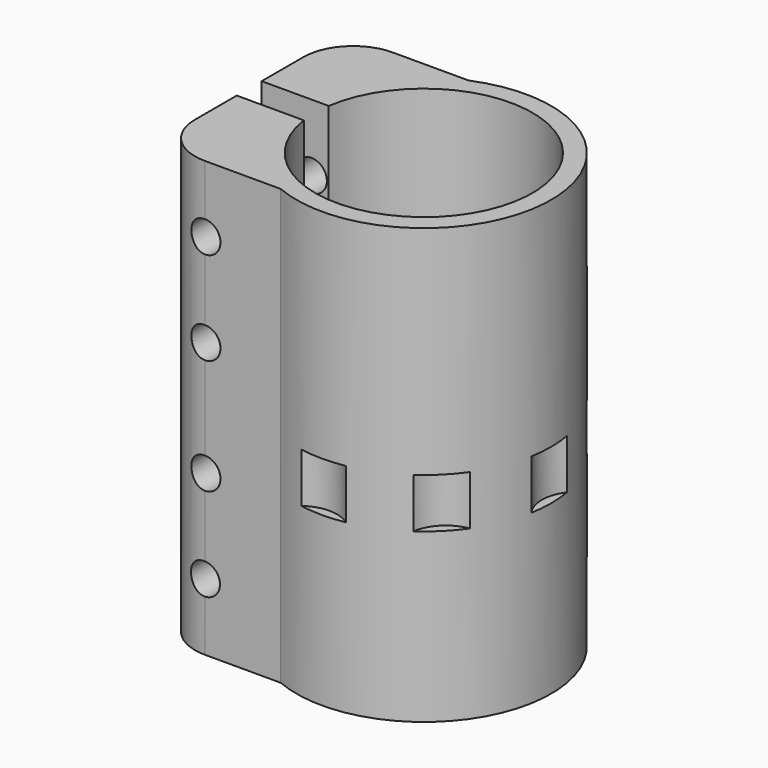
from build123d import *

# Parameters (mm, degrees)
F1_DEPTH       = 35
F3_D           = 5
F3_START       = 1.7550021
F3_START_2     = 1.8205079
F3_CBORE_D     = 10
F3_CBORE_DEPTH = 8
F4_W           = 22.4
F4_H           = 2
F5_DEPTH       = 12.5
F6_R           = 6
F7_DEPTH       = 8


with BuildPart() as f1:
    # F0 (on Top) → F1 (new body, symmetric)
    with BuildSketch(Plane.XY):
        with BuildLine():
            ThreePointArc((-17.3192642082, 2.5086026559), (17.5, 0), (-17.3192642082, -2.5086026559))
            Line((-17.3192642082, -2.5086026559), (-28.1192642082, -2.5086026559))
            Line((-28.1192642082, -2.5086026559), (-28.1192642082, -10.9086026559))
            ThreePointArc((-28.1192642082, -10.9086026559), (-25.7761184577, -16.5654569054), (-20.1192642082, -18.9086026559))
            Line((-20.1192642082, -18.9086026559), (-7.9192642082, -18.9086026559))
            ThreePointArc((-7.9192642082, -18.9086026559), (20.5, 0), (-7.9192642082, 18.9086026559))
            Line((-7.9192642082, 18.9086026559), (-20.1192642082, 18.9086026559))
            ThreePointArc((-20.1192642082, 18.9086026559), (-25.7761184577, 16.5654569054), (-28.1192642082, 10.9086026559))
            Line((-28.1192642082, 10.9086026559), (-28.1192642082, 2.5086026559))
            Line((-28.1192642082, 2.5086026559), (-17.3192642082, 2.5086026559))
        make_face()
    extrude(amount=F1_DEPTH, both=True)

    # F3 (through all)
    # its depths count from where the whole tool has entered the part; down to there all is cleared
    with Locations(Plane(origin=(0, 18.9086026559, 0), x_dir=(-1, 0, 0), z_dir=(0, 1, 0))):
        with Locations((20.1192642082, 24.25, -F3_START), (20.1192642082, 9.25, -F3_START), (20.1192642082, -9.25, -F3_START), (20.2, -24.2497827228, -F3_START_2)):
            CounterBoreHole(F3_D / 2, F3_CBORE_D / 2, F3_CBORE_DEPTH)

    # F4 (on Front) → F5 (cut, symmetric)
    with BuildSketch(Plane.XZ):
        with Locations((-16.9192642082, 0)):
            Rectangle(F4_W, F4_H)
    extrude(amount=F5_DEPTH, both=True, mode=Mode.SUBTRACT)

    # F6 (on Top) → F7 (cut)
    with BuildSketch(Plane.XY):
        with Locations((0, -25)):
            Circle(F6_R)
        with Locations((17.6776695297, -17.6776695297)):
            Circle(F6_R)
        with Locations((25, 0)):
            Circle(F6_R)
        with Locations((17.6776695297, 17.6776695297)):
            Circle(F6_R)
        with Locations((0, 25)):
            Circle(F6_R)
    extrude(amount=-F7_DEPTH, mode=Mode.SUBTRACT)


solid = f1.part
